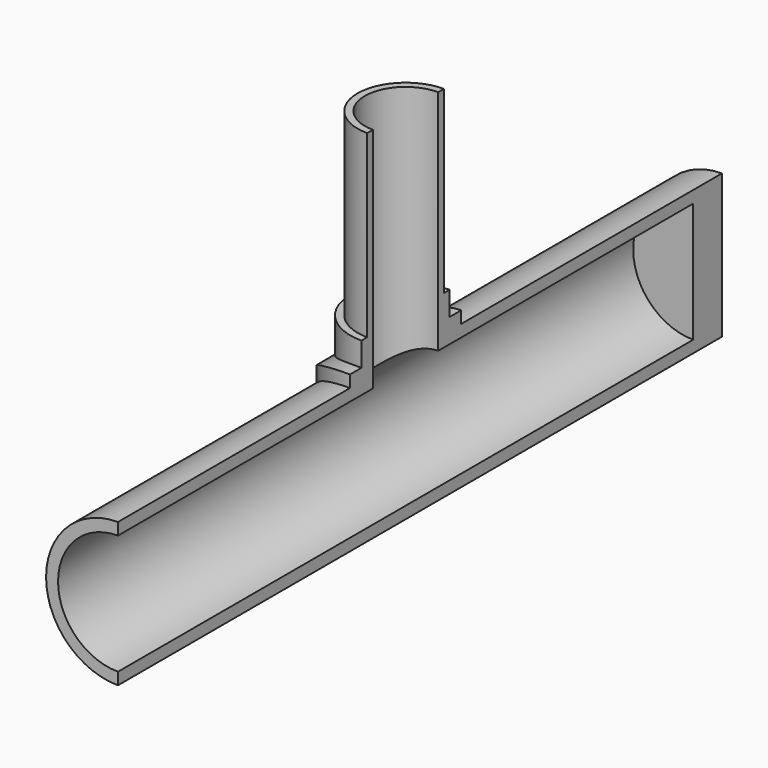
from build123d import *

# Parameters (mm, degrees)
BOX001_W               = 500
BOX001_H               = 1800
BOX001_DEPTH           = 1000
CYLINDER008_R          = 150
CYLINDER008_DEPTH      = 75
CYLINDER008_ROLL_ANGLE = 90
CYLINDER007_R          = 125
CYLINDER007_DEPTH      = 1500
CYLINDER007_ROLL_ANGLE = 90
CYLINDER006_R          = 85
CYLINDER006_DEPTH      = 600
CYLINDER002_R          = 115
CYLINDER002_DEPTH      = 225
CYLINDER001_R          = 150
CYLINDER001_DEPTH      = 1500
CYLINDER001_ROLL_ANGLE = 90
CYLINDER_R             = 100
CYLINDER_DEPTH         = 600
BOX_W                  = 500
BOX_H                  = 500
BOX_DEPTH              = 500
CYLINDER004_R          = 145
CYLINDER004_DEPTH      = 600
CYLINDER005_R          = 300
CYLINDER005_DEPTH      = 600
CYLINDER003_R          = 175
CYLINDER003_DEPTH      = 400
CYLINDER003_ROLL_ANGLE = 90


with BuildPart() as cube001:
    # Box001 → Box001 (new body)
    with BuildSketch(Plane(origin=(0, -815, -274), x_dir=(1, 0, 0), z_dir=(0, 0, 1))):
        with Locations((250, 900)):
            Rectangle(BOX001_W, BOX001_H)
    extrude(amount=BOX001_DEPTH)


with BuildPart() as cylinder008:
    # Cylinder008 → Cylinder008 (new body)
    with BuildSketch(Plane.XY):
        Circle(CYLINDER008_R)
    extrude(amount=CYLINDER008_DEPTH)


with BuildPart() as cylinder008_1:
    # Cylinder008 roll: moved
    add(cylinder008.part.rotate(Axis((0, 0, 0), (1, 0, 0)), CYLINDER008_ROLL_ANGLE))


with BuildPart() as cylinder008_2:
    # Cylinder008 placement: moved
    add(cylinder008_1.part.moved(Location((0, 825, 0))))


with BuildPart() as cylinder007:
    # Cylinder007 → Cylinder007 (new body)
    with BuildSketch(Plane.XY):
        Circle(CYLINDER007_R)
    extrude(amount=CYLINDER007_DEPTH)


with BuildPart() as cylinder007_1:
    # Cylinder007 roll: moved
    add(cylinder007.part.rotate(Axis((0, 0, 0), (1, 0, 0)), CYLINDER007_ROLL_ANGLE))


with BuildPart() as cylinder007_2:
    # Cylinder007 placement: moved
    add(cylinder007_1.part.moved(Location((0, 750, 0))))


with BuildPart() as cylinder006:
    # Cylinder006 → Cylinder006 (new body)
    with BuildSketch(Plane.XY):
        Circle(CYLINDER006_R)
    extrude(amount=CYLINDER006_DEPTH)


with BuildPart() as cylinder002:
    # Cylinder002 → Cylinder002 (new body)
    with BuildSketch(Plane.XY):
        Circle(CYLINDER002_R)
    extrude(amount=CYLINDER002_DEPTH)


with BuildPart() as cylinder001:
    # Cylinder001 → Cylinder001 (new body)
    with BuildSketch(Plane.XY):
        Circle(CYLINDER001_R)
    extrude(amount=CYLINDER001_DEPTH)


with BuildPart() as cylinder001_1:
    # Cylinder001 roll: moved
    add(cylinder001.part.rotate(Axis((0, 0, 0), (1, 0, 0)), CYLINDER001_ROLL_ANGLE))


with BuildPart() as cylinder001_2:
    # Cylinder001 placement: moved
    add(cylinder001_1.part.moved(Location((0, 750, 0))))


with BuildPart() as cylinder:
    # Cylinder → Cylinder (new body)
    with BuildSketch(Plane.XY):
        Circle(CYLINDER_R)
    extrude(amount=CYLINDER_DEPTH)


with BuildPart() as cube:
    # Box → Box (new body)
    with BuildSketch(Plane(origin=(-226, -279, -480), x_dir=(1, 0, 0), z_dir=(0, 0, 1))):
        with Locations((250, 250)):
            Rectangle(BOX_W, BOX_H)
    extrude(amount=BOX_DEPTH)


with BuildPart() as cylinder004:
    # Cylinder004 → Cylinder004 (new body)
    with BuildSketch(Plane.XY):
        Circle(CYLINDER004_R)
    extrude(amount=CYLINDER004_DEPTH)


with BuildPart() as cut:
    # Cylinder005 → Cylinder005 (new body)
    with BuildSketch(Plane.XY):
        Circle(CYLINDER005_R)
    extrude(amount=CYLINDER005_DEPTH)

    # Cut: cut Cylinder004
    add(cylinder004.part, mode=Mode.SUBTRACT)


with BuildPart() as cut005:
    # Cylinder003 → Cylinder003 (new body)
    with BuildSketch(Plane.XY):
        Circle(CYLINDER003_R)
    extrude(amount=CYLINDER003_DEPTH)


with BuildPart() as cut005_1:
    # Cylinder003 roll: moved
    add(cut005.part.rotate(Axis((0, 0, 0), (1, 0, 0)), CYLINDER003_ROLL_ANGLE))


with BuildPart() as cut005_2:
    # Cylinder003 placement: moved
    add(cut005_1.part.moved(Location((0, 200, 0))))

    # Cut001: cut Cut
    add(cut.part, mode=Mode.SUBTRACT)

    # Cut002: cut Cube
    add(cube.part, mode=Mode.SUBTRACT)

    # Fusion: union Cylinder002, Cylinder001, Cylinder
    add(cylinder002.part)
    add(cylinder001_2.part)
    add(cylinder.part)

    # Cut003: cut Cylinder006
    add(cylinder006.part, mode=Mode.SUBTRACT)

    # Cut004: cut Cylinder007
    add(cylinder007_2.part, mode=Mode.SUBTRACT)

    # Fusion001: union Cylinder008
    add(cylinder008_2.part)

    # Cut005: cut Cube001
    add(cube001.part, mode=Mode.SUBTRACT)


solid = cut005_2.part
